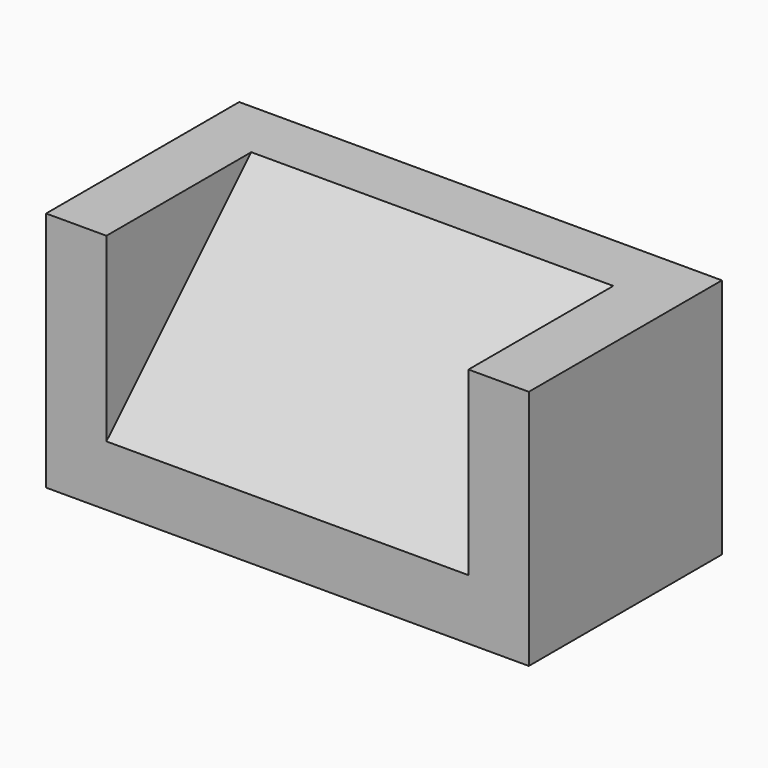
from build123d import *

# Parameters (mm, degrees)
F1_DEPTH = 152.4
F2_W     = 101.6
F2_H     = 101.6
F3_DEPTH = 25.4
F4_W     = 101.6
F4_H     = 101.6
F5_DEPTH = 25.4


with BuildPart() as f1:
    # F0 (on Right) → F1 (new body)
    with BuildSketch(Plane.YZ):
        Polygon((-101.6, 0), (0, 0), (0, 101.6), (-25.4, 101.6), (-101.6, 25.4), align=None)
    extrude(amount=F1_DEPTH)

    # F2 (on face) → F3 (join)
    with BuildSketch(Plane(origin=(0, 0, 0), x_dir=(0, -1, 0), z_dir=(-1, 0, 0))):
        with Locations((50.8, 50.8)):
            Rectangle(F2_W, F2_H)
    extrude(amount=F3_DEPTH)

    # F4 (on face) → F5 (join)
    with BuildSketch(Plane.YZ.offset(152.4)):
        with Locations((-50.8, 50.8)):
            Rectangle(F4_W, F4_H)
    extrude(amount=F5_DEPTH)


solid = f1.part
